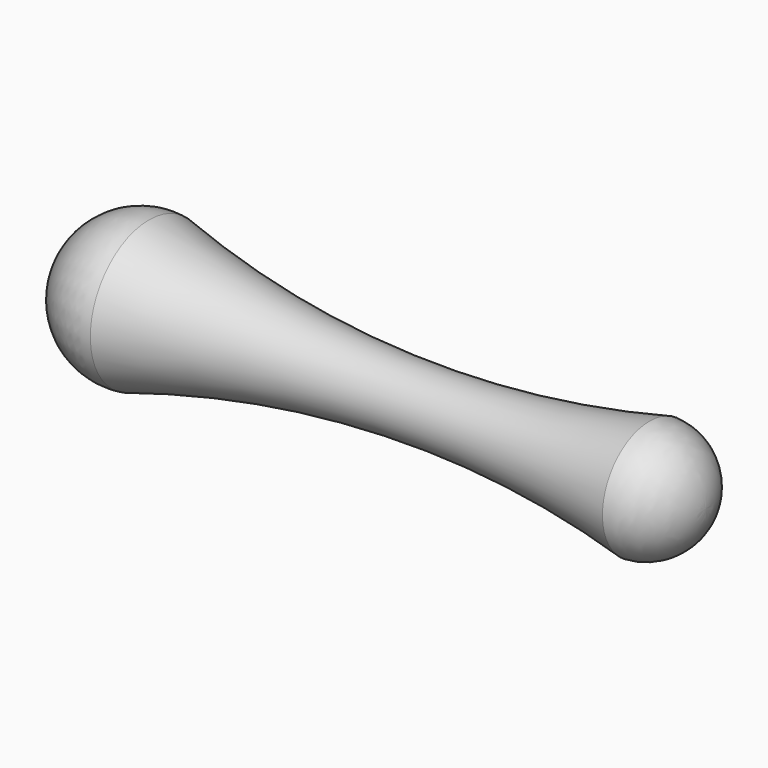
from build123d import *


with BuildPart() as f1:
    # F0 (on Front) → F1 (revolve)
    with BuildSketch(Plane.XZ):
        with BuildLine():
            ThreePointArc((-45.887667, 14.900757), (-57.589287, 11.199094), (-62.610294, 0))
            Line((-62.610294, 0), (67.389706, 0))
            ThreePointArc((67.389706, 0), (64.093702, 8.260778), (56.016297, 11.98363))
            ThreePointArc((56.016297, 11.98363), (4.875327, 6.840265), (-45.887667, 14.900757))
        make_face()
    revolve(axis=Axis((2.389706, 0, 0), (1, 0, 0)))


solid = f1.part
